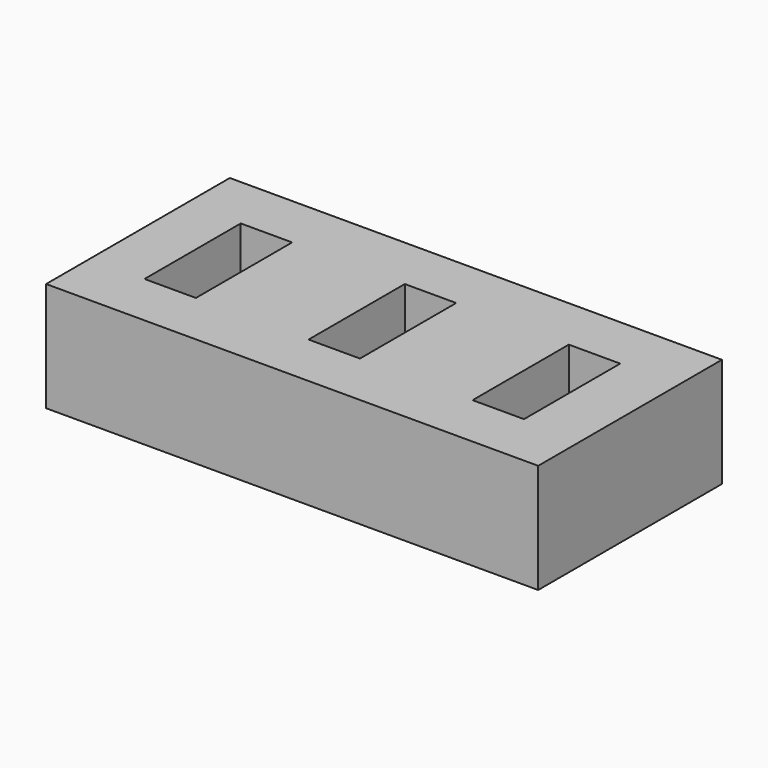
from build123d import *

# Parameters (mm, degrees)
BOX_W        = 4.7
BOX_H        = 11
BOX_DEPTH    = 12
BOX002_W     = 4.7
BOX002_H     = 11
BOX002_DEPTH = 12
BOX001_W     = 4.7
BOX001_H     = 11
BOX001_DEPTH = 12
BOX003_W     = 45
BOX003_H     = 21
BOX003_DEPTH = 10


with BuildPart() as ranura1:
    # Box → Box (new body)
    with BuildSketch(Plane.XY):
        with Locations((2.35, 5.5)):
            Rectangle(BOX_W, BOX_H)
    extrude(amount=BOX_DEPTH)


with BuildPart() as ranura003:
    # Box002 → Box002 (new body)
    with BuildSketch(Plane(origin=(30, 0, 0), x_dir=(1, 0, 0), z_dir=(0, 0, 1))):
        with Locations((2.35, 5.5)):
            Rectangle(BOX002_W, BOX002_H)
    extrude(amount=BOX002_DEPTH)


with BuildPart() as ranuras:
    # Box001 → Box001 (new body)
    with BuildSketch(Plane(origin=(15, 0, 0), x_dir=(1, 0, 0), z_dir=(0, 0, 1))):
        with Locations((2.35, 5.5)):
            Rectangle(BOX001_W, BOX001_H)
    extrude(amount=BOX001_DEPTH)

    # Fusion: union Ranura1, Ranura003
    add(ranura1.part)
    add(ranura003.part)


with BuildPart() as ranuras_1:
    # Fusion placement: moved
    add(ranuras.part.moved(Location((5, 5, 0))))


with BuildPart() as cut:
    # Box003 → Box003 (new body)
    with BuildSketch(Plane.XY):
        with Locations((22.5, 10.5)):
            Rectangle(BOX003_W, BOX003_H)
    extrude(amount=BOX003_DEPTH)

    # Cut: cut Ranuras
    add(ranuras_1.part, mode=Mode.SUBTRACT)


solid = cut.part
